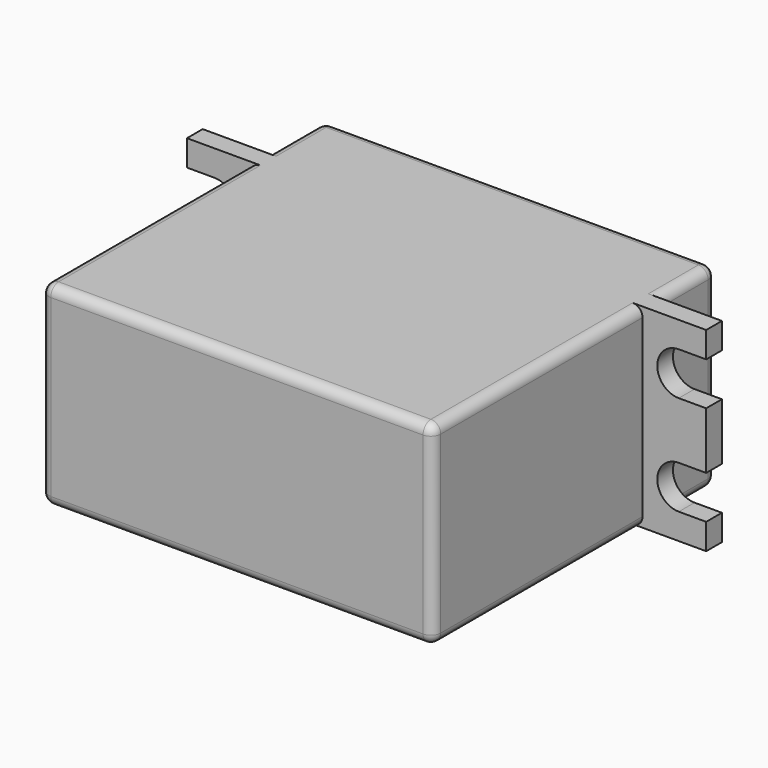
from build123d import *

# Parameters (mm, degrees)
PAD002_DEPTH = 36.02
PAD003_DEPTH = 36.02
PAD004_DEPTH = 36.02
PAD001_DEPTH = 36.02
SKETCH005_R  = 2.5
PAD005_DEPTH = 3.05
SKETCH006_R  = 6.606667
PAD006_DEPTH = 2.33
PAD_DEPTH    = 19.82
FILLET_R     = 1


with BuildPart() as body002:
    # Sketch002 → Pad002 (new body)
    with BuildSketch(Plane.XZ):
        with BuildLine():
            ThreePointArc((-32.39, 17.185), (-34.58, 14.995), (-32.39, 12.805))
            Line((-32.39, 12.805), (-23.63, 12.805))
            ThreePointArc((-23.63, 12.805), (-21.44, 14.995), (-23.63, 17.185))
            Line((-32.39, 17.185), (-23.63, 17.185))
        make_face()
    extrude(amount=-PAD002_DEPTH)


with BuildPart() as body003:
    # Sketch003 → Pad003 (new body)
    with BuildSketch(Plane.XZ):
        with BuildLine():
            ThreePointArc((23.63, 7.015), (21.44, 4.825), (23.63, 2.635))
            Line((23.63, 2.635), (32.39, 2.635))
            ThreePointArc((32.39, 2.635), (34.58, 4.825), (32.39, 7.015))
            Line((23.63, 7.015), (32.39, 7.015))
        make_face()
    extrude(amount=-PAD003_DEPTH)


with BuildPart() as body004:
    # Sketch004 → Pad004 (new body)
    with BuildSketch(Plane.XZ):
        with BuildLine():
            ThreePointArc((23.63, 17.185), (21.44, 14.995), (23.63, 12.805))
            Line((23.63, 12.805), (32.39, 12.805))
            ThreePointArc((32.39, 12.805), (34.58, 14.995), (32.39, 17.185))
            Line((23.63, 17.185), (32.39, 17.185))
        make_face()
    extrude(amount=-PAD004_DEPTH)


with BuildPart() as fusion:
    # Sketch001 → Pad001 (new body)
    with BuildSketch(Plane.XZ):
        with BuildLine():
            ThreePointArc((-32.39, 7.015), (-34.58, 4.825), (-32.39, 2.635))
            Line((-32.39, 2.635), (-23.63, 2.635))
            ThreePointArc((-23.63, 2.635), (-21.44, 4.825), (-23.63, 7.015))
            Line((-32.39, 7.015), (-23.63, 7.015))
        make_face()
    extrude(amount=-PAD001_DEPTH)

    # Fusion: union Body002, Body003, Body004
    add(body002.part)
    add(body003.part)
    add(body004.part)


with BuildPart() as body005:
    # Sketch005 → Pad005 (new body)
    with BuildSketch(Plane.XZ):
        with Locations((10.28, 9.91)):
            Circle(SKETCH005_R)
    extrude(amount=-PAD005_DEPTH)


with BuildPart() as body005_1:
    # Body005 placement: moved
    add(body005.part.moved(Location((0, 38.35, 0))))


with BuildPart() as body006:
    # Sketch006 → Pad006 (new body)
    with BuildSketch(Plane.XZ):
        with Locations((10.28, 9.91)):
            Circle(SKETCH006_R)
    extrude(amount=-PAD006_DEPTH)


with BuildPart() as body006_1:
    # Body006 placement: moved
    add(body006.part.moved(Location((0, 36.02, 0))))


with BuildPart() as cut:
    # Sketch → Pad (new body)
    with BuildSketch(Plane.XY):
        Polygon((-19.94, 0), (-19.94, 26.67), (-26.42, 26.67), (-26.42, 28.67), (-19.94, 28.67), (-19.94, 36.02), (19.94, 36.02), (19.94, 28.67), (26.42, 28.67), (26.42, 26.67), (19.94, 26.67), (19.94, 0), align=None)
    extrude(amount=PAD_DEPTH)

    # Fillet
    fillet_edges = [cut.edges().sort_by_distance(p)[0] for p in [
        (0, 36.02, 19.82),
        (0, 36.02, 0),
        (-19.94, 36.02, 9.91),
        (-19.94, 32.345, 0),
        (-19.94, 32.345, 19.82),
        (-19.94, 13.335, 0),
        (-19.94, 13.335, 19.82),
        (-19.94, 0, 9.91),
        (0, 0, 0),
        (19.94, 13.335, 0),
        (19.94, 32.345, 0),
        (19.94, 36.02, 9.91),
        (19.94, 32.345, 19.82),
        (19.94, 13.335, 19.82),
        (19.94, 0, 9.91),
        (0, 0, 19.82),
    ]]
    fillet(fillet_edges, radius=FILLET_R)

    # Fusion001: union Body005, Body006
    add(body005_1.part)
    add(body006_1.part)

    # Cut: cut Fusion
    add(fusion.part, mode=Mode.SUBTRACT)


solid = cut.part
